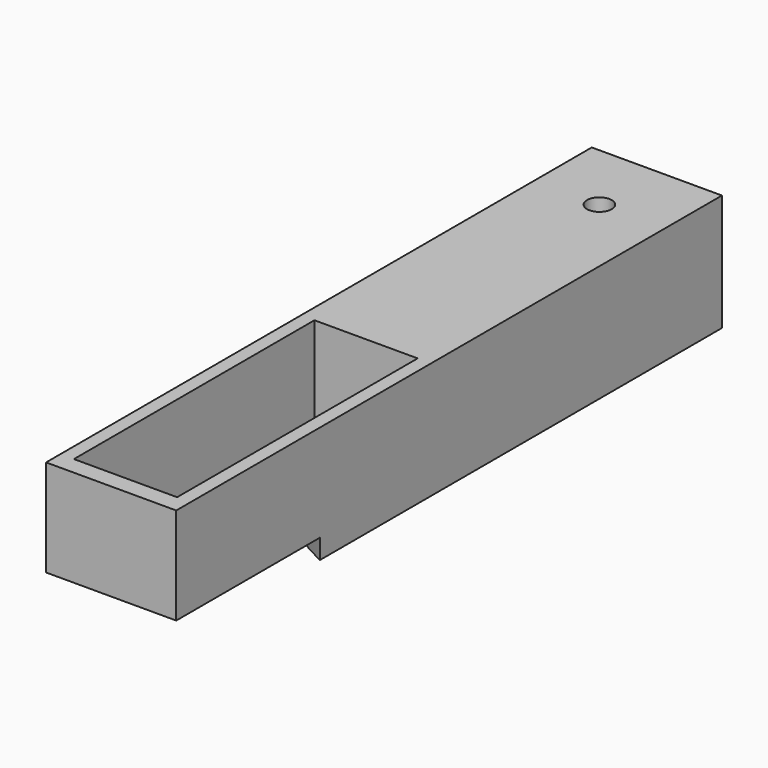
from build123d import *

# Parameters (mm, degrees)
F0_W     = 29
F0_H     = 152
F1_DEPTH = 26
F2_R     = 3
F2_R_2   = 2.75
F3_DEPTH = 26.001
F4_W     = 23
F4_H     = 67
F4_R     = 3
F5_DEPTH = 19.2
F6_W     = 10
F6_H     = 8
F6_R     = 3
F7_DEPTH = 2
F8_W     = 29
F8_H     = 40
F8_R     = 3
F9_DEPTH = 4.4


with BuildPart() as f1:
    # F0 (on Top) → F1 (new body)
    with BuildSketch(Plane.XY):
        Rectangle(F0_W, F0_H)
    extrude(amount=F1_DEPTH)

    # F2 (on face) → F3 (cut, through all)
    with BuildSketch(Plane.XY.offset(26)):
        with Locations((0, -60)):
            Circle(F2_R)
        with Locations((0, 60)):
            Circle(F2_R_2)
    extrude(amount=-F3_DEPTH, mode=Mode.SUBTRACT)

    # F4 (on face) → F5 (cut)
    with BuildSketch(Plane.XY.offset(26)):
        with Locations((0, -38.5)):
            Rectangle(F4_W, F4_H)
        with Locations((0, -60)):
            Circle(F4_R, mode=Mode.SUBTRACT)
    extrude(amount=-F5_DEPTH, mode=Mode.SUBTRACT)

    # F6 (on face) → F7 (cut)
    with BuildSketch(Plane.XY.offset(6.8)):
        with Locations((0, -28)):
            Rectangle(F6_W, F6_H)
        with Locations((0, -49)):
            Circle(F6_R)
    extrude(amount=-F7_DEPTH, mode=Mode.SUBTRACT)

    # F8 (on face) → F9 (cut)
    with BuildSketch(Plane(origin=(0, 0, 0), x_dir=(1, 0, 0), z_dir=(0, 0, -1))):
        with Locations((0, 56)):
            Rectangle(F8_W, F8_H)
        with Locations((0, 60)):
            Circle(F8_R, mode=Mode.SUBTRACT)
        with BuildLine():
            ThreePointArc((-14.5, 6), (-2.691813, 23.602086), (14.5, 36))
            Line((14.5, 36), (-14.5, 36))
            Line((-14.5, 36), (-14.5, 6))
        make_face()
    extrude(amount=-F9_DEPTH, mode=Mode.SUBTRACT)


solid = f1.part
